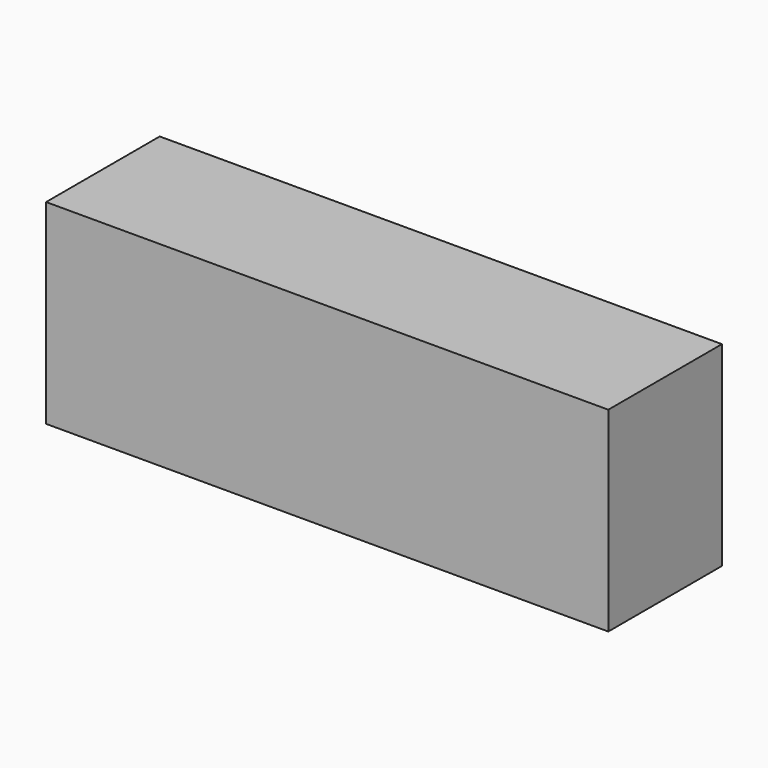
from build123d import *

# Parameters (mm, degrees)
SKETCH_W        = 95
SKETCH_H        = 24
PAD_DEPTH       = 33
SKETCH001_W     = 51
SKETCH001_H     = 29
POCKET_DEPTH    = 0.5
SKETCH002_R     = 7.5
POCKET001_DEPTH = 0.5
SKETCH003_R     = 4.5
HOLE_DEPTH      = 3
HOLE_TIPS_R     = 4.5


with BuildPart() as part:
    # Sketch → Pad (new body)
    with BuildSketch(Plane.XY):
        with Locations((14.785113, -6.63841)):
            Rectangle(SKETCH_W, SKETCH_H)
    extrude(amount=PAD_DEPTH)

    # Sketch001 (on Face4 of Pad) → Pocket (cut)
    with BuildSketch(Plane(origin=(0, 5.36159, 0), x_dir=(-1, 0, 0), z_dir=(0, 1, 0))):
        with Locations((-15.879372, 16.52663)):
            Rectangle(SKETCH001_W, SKETCH001_H)
    extrude(amount=-POCKET_DEPTH, mode=Mode.SUBTRACT)

    # Sketch002 (on Face11 of Pocket) → Pocket001 (cut)
    with BuildSketch(Plane(origin=(0, 4.86159, 0), x_dir=(-1, 0, 0), z_dir=(0, 1, 0))):
        with Locations((-15.141794, 16.087093)):
            Circle(SKETCH002_R)
    extrude(amount=-POCKET001_DEPTH, mode=Mode.SUBTRACT)

    # Sketch003 (on Face13 of Pocket001) → Hole (cut)
    with BuildSketch(Plane(origin=(0, 4.36159, 0), x_dir=(-1, 0, 0), z_dir=(0, 1, 0))):
        with Locations((-15.121763, 15.971645)):
            Circle(SKETCH003_R)
    extrude(amount=-HOLE_DEPTH, mode=Mode.SUBTRACT)

    # Hole tips → Hole tip 1 section 0
    with BuildSketch(Plane(origin=(0, 1.36159, 0), x_dir=(-1, 0, 0), z_dir=(0, 1, 0)), mode=Mode.PRIVATE) as hole_tip_1_s0:
        with Locations((-15.121763, 15.971645)):
            Circle(HOLE_TIPS_R)
    loft([hole_tip_1_s0.sketch, Vertex(15.121763, -1.342283, 15.971645)], mode=Mode.SUBTRACT)


solid = part.part
